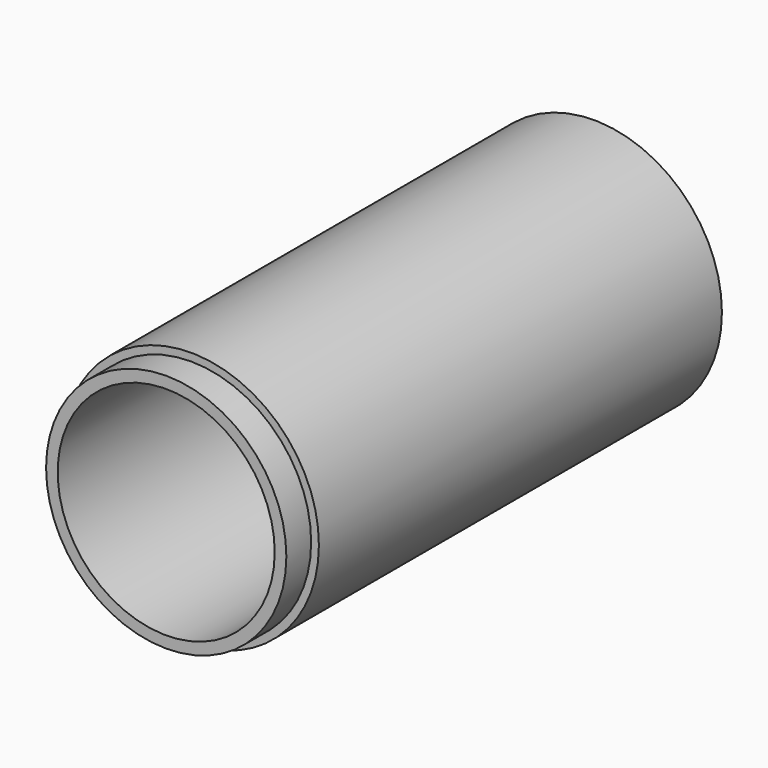
from build123d import *

# Parameters (mm, degrees)
F0_R     = 8.25
F0_R_2   = 3
F1_DEPTH = 1.5
F2_R     = 8.25
F2_R_2   = 7
F3_DEPTH = 31
F4_R     = 7.75
F4_R_2   = 7
F5_DEPTH = 2
F7_ANGLE = 90


with BuildPart() as f1:
    # F0 (on Top) → F1 (new body)
    with BuildSketch(Plane.XY):
        Circle(F0_R)
        Circle(F0_R_2, mode=Mode.SUBTRACT)
    extrude(amount=F1_DEPTH)

    # F2 (on face) → F3 (join)
    with BuildSketch(Plane.XY.offset(1.5)):
        Circle(F2_R)
        Circle(F2_R_2, mode=Mode.SUBTRACT)
    extrude(amount=F3_DEPTH)

    # F4 (on face) → F5 (join)
    with BuildSketch(Plane.XY.offset(32.5)):
        Circle(F4_R)
        Circle(F4_R_2, mode=Mode.SUBTRACT)
    extrude(amount=F5_DEPTH)


with BuildPart() as f1_1:
    # F7: moved
    add(f1.part.rotate(Axis((6.326988, 0, 0), (1, 0, 0)), F7_ANGLE))


solid = f1_1.part
